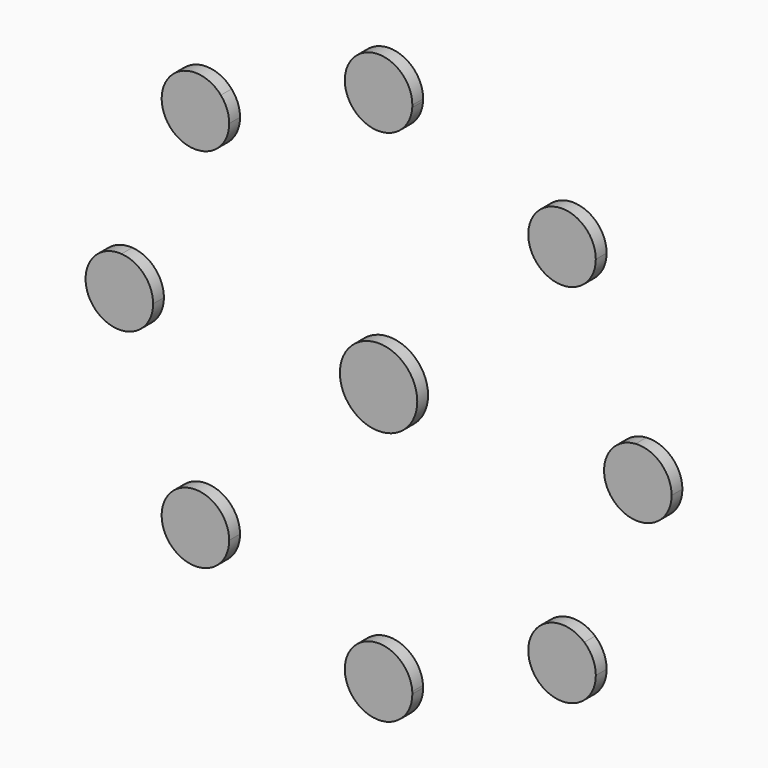
from build123d import *

# Parameters (mm, degrees)
F1_DEPTH = 2.54
F0_R     = 7.2761689779


with BuildPart() as f1:
    # F0 (on Front) → F1 (new body)
    with BuildSketch(Plane.XZ):
        with BuildLine():
            ThreePointArc((-38.6289761731, 29.7318574602), (-34.4363682798, 34.5009809702), (-29.6593939712, 38.6846416227))
            ThreePointArc((-29.6593939712, 38.6846416227), (-38.9222859219, 38.9953155048), (-38.628976173, 29.7318574602))
        make_face()
        with BuildLine():
            ThreePointArc((-28.0863682798, 34.5009809702), (-28.4926200155, 36.7357866822), (-29.6593939712, 38.6846416227))
            ThreePointArc((-29.6593939712, 38.6846416227), (-34.4363682798, 34.5009809702), (-38.6289761731, 29.7318574602))
            ThreePointArc((-38.628976173, 29.7318574602), (-31.8191713176, 28.7154144413), (-28.0863682798, 34.5009809702))
        make_face()
    extrude(amount=F1_DEPTH)


with BuildPart() as f1b:
    # F0 (on Front) → F1, piece 2 (new body)
    with BuildSketch(Plane.XZ):
        with BuildLine():
            ThreePointArc((6.3365161788, 48.3324912551), (0, 48.7460885427), (-6.3365161788, 48.3324912551))
            ThreePointArc((-6.3365161788, 48.3324912551), (0, 42.3960885427), (6.3365161788, 48.3324912551))
        make_face()
        with BuildLine():
            ThreePointArc((6.3365161788, 48.3324912551), (6.3466281495, 48.5391800305), (6.35, 48.7460885427))
            ThreePointArc((6.35, 48.7460885427), (-0.2069085122, 55.0927166922), (-6.3365161788, 48.3324912551))
            ThreePointArc((-6.3365161788, 48.3324912551), (0, 48.7460885427), (6.3365161788, 48.3324912551))
        make_face()
    extrude(amount=F1_DEPTH)


with BuildPart() as f1c:
    # F0 (on Front) → F1, piece 3 (new body)
    with BuildSketch(Plane.XZ):
        with BuildLine():
            ThreePointArc((38.6809602201, 29.6641949943), (34.4967067172, 34.4406500212), (29.7270628884, 38.6326659737))
            ThreePointArc((29.7270628884, 38.6326659737), (30.0029289762, 29.9541746101), (38.6809602201, 29.6641949943))
        make_face()
        with BuildLine():
            ThreePointArc((40.8467067172, 34.4406500212), (36.7367136019, 40.3824400845), (29.7270628884, 38.6326659737))
            ThreePointArc((29.7270628884, 38.6326659737), (34.4967067172, 34.4406500212), (38.6809602201, 29.6641949943))
            ThreePointArc((38.6809602201, 29.6641949943), (40.279980433, 31.8183904748), (40.8467067172, 34.4406500212))
        make_face()
    extrude(amount=F1_DEPTH)


with BuildPart() as f1d:
    # F0 (on Front) → F1, piece 4 (new body)
    with BuildSketch(Plane.XZ):
        Circle(F0_R)
    extrude(amount=F1_DEPTH)


with BuildPart() as f1e:
    # F0 (on Front) → F1, piece 5 (new body)
    with BuildSketch(Plane.XZ):
        with BuildLine():
            ThreePointArc((55.0960885427, 0), (53.0875259328, 4.6340502142), (48.3324912551, 6.3365161788))
            ThreePointArc((48.3324912551, 6.3365161788), (48.6425793232, 3.175), (48.7460885427, 0))
            ThreePointArc((48.7460885427, 0), (48.6425793232, -3.175), (48.3324912551, -6.3365161788))
            ThreePointArc((48.3324912551, -6.3365161788), (53.0875259328, -4.6340502142), (55.0960885427, 0))
        make_face()
        with BuildLine():
            ThreePointArc((48.7460885427, 0), (48.6425793232, 3.175), (48.3324912551, 6.3365161788))
            ThreePointArc((48.3324912551, 6.3365161788), (42.3960885427, 0), (48.3324912551, -6.3365161788))
            ThreePointArc((48.3324912551, -6.3365161788), (48.6425793232, -3.175), (48.7460885427, 0))
        make_face()
    extrude(amount=F1_DEPTH)


with BuildPart() as f1f:
    # F0 (on Front) → F1, piece 6 (new body)
    with BuildSketch(Plane.XZ):
        with BuildLine():
            ThreePointArc((40.8509809702, -34.4363682798), (40.2840919472, -31.81374985), (38.6846416227, -29.6593939712))
            ThreePointArc((38.6846416227, -29.6593939712), (34.5009809702, -34.4363682798), (29.7318574602, -38.628976173))
            ThreePointArc((29.7318574602, -38.628976173), (36.7413565762, -40.3780193252), (40.8509809702, -34.4363682798))
        make_face()
        with BuildLine():
            ThreePointArc((29.7318574602, -38.628976173), (34.5009809702, -34.4363682798), (38.6846416227, -29.6593939712))
            ThreePointArc((38.6846416227, -29.6593939712), (30.0066464357, -29.9504506377), (29.7318574602, -38.628976173))
        make_face()
    extrude(amount=F1_DEPTH)


with BuildPart() as f1g:
    # F0 (on Front) → F1, piece 7 (new body)
    with BuildSketch(Plane.XZ):
        with BuildLine():
            ThreePointArc((6.3365161788, -48.3324912551), (0, -48.7460885427), (-6.3365161788, -48.3324912551))
            ThreePointArc((-6.3365161788, -48.3324912551), (-0.2069085122, -55.0927166922), (6.35, -48.7460885427))
            ThreePointArc((6.35, -48.7460885427), (6.3466281495, -48.5391800305), (6.3365161788, -48.3324912551))
        make_face()
        with BuildLine():
            ThreePointArc((6.3365161788, -48.3324912551), (0, -42.3960885427), (-6.3365161788, -48.3324912551))
            ThreePointArc((-6.3365161788, -48.3324912551), (0, -48.7460885427), (6.3365161788, -48.3324912551))
        make_face()
    extrude(amount=F1_DEPTH)


with BuildPart() as f1h:
    # F0 (on Front) → F1, piece 8 (new body)
    with BuildSketch(Plane.XZ):
        with BuildLine():
            ThreePointArc((-29.6641949943, -38.6809602201), (-34.4406500212, -34.4967067172), (-38.6326659737, -29.7270628884))
            ThreePointArc((-38.6326659737, -29.7270628884), (-38.9271254323, -38.9904844582), (-29.6641949943, -38.6809602201))
        make_face()
        with BuildLine():
            ThreePointArc((-28.0906500212, -34.4967067172), (-31.8230940331, -28.711302613), (-38.6326659737, -29.7270628884))
            ThreePointArc((-38.6326659737, -29.7270628884), (-34.4406500212, -34.4967067172), (-29.6641949943, -38.6809602201))
            ThreePointArc((-29.6641949943, -38.6809602201), (-28.497040452, -36.7318812719), (-28.0906500212, -34.4967067172))
        make_face()
    extrude(amount=F1_DEPTH)


with BuildPart() as f1i:
    # F0 (on Front) → F1, piece 9 (new body)
    with BuildSketch(Plane.XZ):
        with BuildLine():
            ThreePointArc((-48.3324912551, -6.3365161788), (-48.7460885427, 0), (-48.3324912551, 6.3365161788))
            ThreePointArc((-48.3324912551, 6.3365161788), (-55.0960885427, 0), (-48.3324912551, -6.3365161788))
        make_face()
        with BuildLine():
            ThreePointArc((-42.3960885427, 0), (-44.1120383285, 4.3414373901), (-48.3324912551, 6.3365161788))
            ThreePointArc((-48.3324912551, 6.3365161788), (-48.7460885427, 0), (-48.3324912551, -6.3365161788))
            ThreePointArc((-48.3324912551, -6.3365161788), (-44.1120383285, -4.3414373901), (-42.3960885427, 0))
        make_face()
    extrude(amount=F1_DEPTH)


solid = Compound([f1.part, f1b.part, f1c.part, f1d.part, f1e.part, f1f.part, f1g.part, f1h.part, f1i.part])
